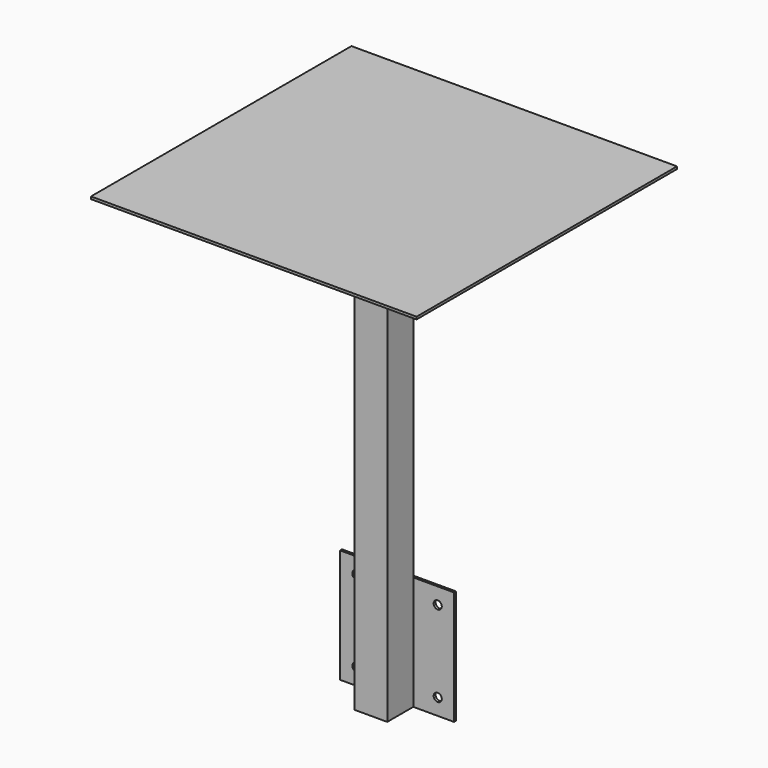
from build123d import *

# Parameters (mm, degrees)
F1_W     = 140
F1_H     = 140
F1_R     = 5
F2_DEPTH = 3
F3_W     = 40
F3_H     = 567
F4_DEPTH = 40
F5_W     = 400
F5_H     = 400
F6_DEPTH = 3


with BuildPart() as f2:
    # F1 (on offset) → F2 (new body)
    with BuildSketch(Plane.XZ.offset(46)):
        with Locations((0, 1000)):
            Rectangle(F1_W, F1_H)
        with Locations((-50, 950)):
            Circle(F1_R, mode=Mode.SUBTRACT)
        with Locations((50, 950)):
            Circle(F1_R, mode=Mode.SUBTRACT)
        with Locations((-50, 1050)):
            Circle(F1_R, mode=Mode.SUBTRACT)
        with Locations((50, 1050)):
            Circle(F1_R, mode=Mode.SUBTRACT)
    extrude(amount=F2_DEPTH)

    # F3 (on face) → F4 (join)
    with BuildSketch(Plane.XZ.offset(49)):
        with Locations((0, 1213.5)):
            Rectangle(F3_W, F3_H)
    extrude(amount=F4_DEPTH)


with BuildPart() as f6:
    # F5 (on face) → F6 (new body)
    with BuildSketch(Plane.XY.offset(1497)):
        with Locations((0, -69)):
            Rectangle(F5_W, F5_H)
    extrude(amount=F6_DEPTH)


solid = Compound([f2.part, f6.part])
